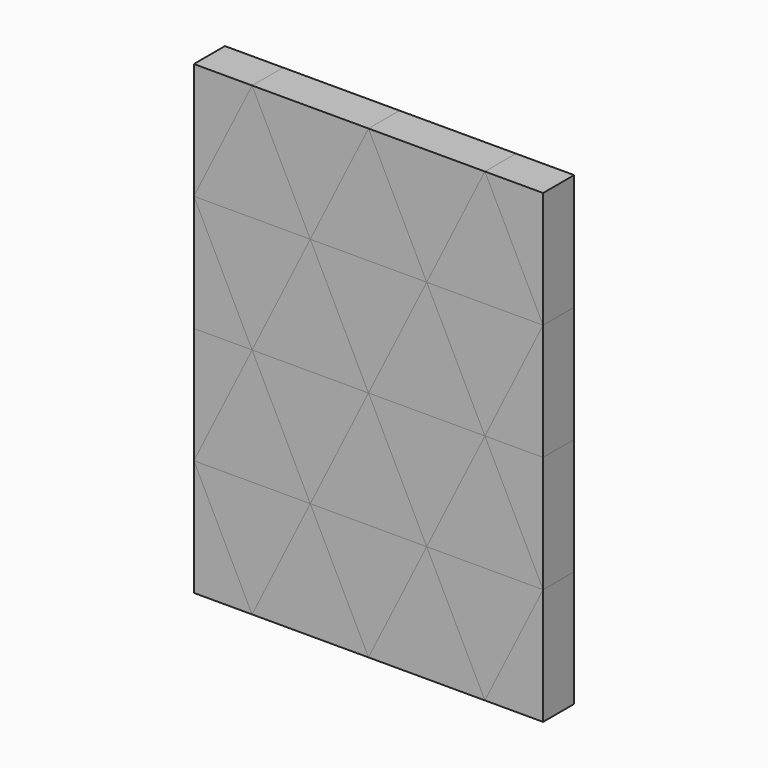
from build123d import *

# Parameters (mm, degrees)
F1_DEPTH = 25.4
F2_DEPTH = 25.4
F3_DEPTH = 25.4


with BuildPart() as f1:
    # F0 (on Front) → F1 (new body)
    with BuildSketch(Plane.XZ):
        Polygon((-76.2, 152.4), (-114.3, 152.4), (-114.3, 76.2), align=None)
        Polygon((0, 152.4), (-76.2, 152.4), (-38.1, 76.2), align=None)
        Polygon((76.2, 152.4), (0, 152.4), (38.1, 76.2), align=None)
        Polygon((114.3, 152.4), (76.2, 152.4), (114.3, 76.2), align=None)
        Polygon((114.3, 0), (114.3, 76.2), (76.2, 0), align=None)
        Polygon((76.2, 0), (38.1, 76.2), (0, 0), align=None)
        Polygon((0, 0), (-38.1, 76.2), (-76.2, 0), align=None)
        Polygon((-76.2, 0), (-114.3, 76.2), (-114.3, 0), align=None)
        Polygon((-38.1, -76.2), (-76.2, 0), (-114.3, -76.2), align=None)
        Polygon((38.1, -76.2), (0, 0), (-38.1, -76.2), align=None)
        Polygon((114.3, -76.2), (76.2, 0), (38.1, -76.2), align=None)
        Polygon((114.3, -152.4), (114.3, -76.2), (76.2, -152.4), align=None)
        Polygon((76.2, -152.4), (38.1, -76.2), (0, -152.4), align=None)
        Polygon((0, -152.4), (-38.1, -76.2), (-76.2, -152.4), align=None)
        Polygon((-76.2, -152.4), (-114.3, -76.2), (-114.3, -152.4), align=None)
    extrude(amount=F1_DEPTH)


with BuildPart() as f2:
    # F0 (on Front) → F2 (new body)
    with BuildSketch(Plane.XZ):
        Polygon((-38.1, 76.2), (-76.2, 152.4), (-114.3, 76.2), align=None)
        Polygon((38.1, 76.2), (0, 152.4), (-38.1, 76.2), align=None)
        Polygon((114.3, 76.2), (76.2, 152.4), (38.1, 76.2), align=None)
        Polygon((114.3, 0), (76.2, 0), (114.3, -76.2), align=None)
        Polygon((76.2, 0), (0, 0), (38.1, -76.2), align=None)
        Polygon((0, 0), (-76.2, 0), (-38.1, -76.2), align=None)
        Polygon((-76.2, 0), (-114.3, 0), (-114.3, -76.2), align=None)
        Polygon((-38.1, -76.2), (-114.3, -76.2), (-76.2, -152.4), align=None)
        Polygon((38.1, -76.2), (-38.1, -76.2), (0, -152.4), align=None)
        Polygon((114.3, -76.2), (38.1, -76.2), (76.2, -152.4), align=None)
    extrude(amount=F2_DEPTH)


with BuildPart() as f3:
    # F0 (on Front) → F3 (new body)
    with BuildSketch(Plane.XZ):
        Polygon((-38.1, 76.2), (-114.3, 76.2), (-76.2, 0), align=None)
        Polygon((38.1, 76.2), (-38.1, 76.2), (0, 0), align=None)
        Polygon((114.3, 76.2), (38.1, 76.2), (76.2, 0), align=None)
    extrude(amount=F3_DEPTH)


solid = Compound([f1.part, f2.part, f3.part])
